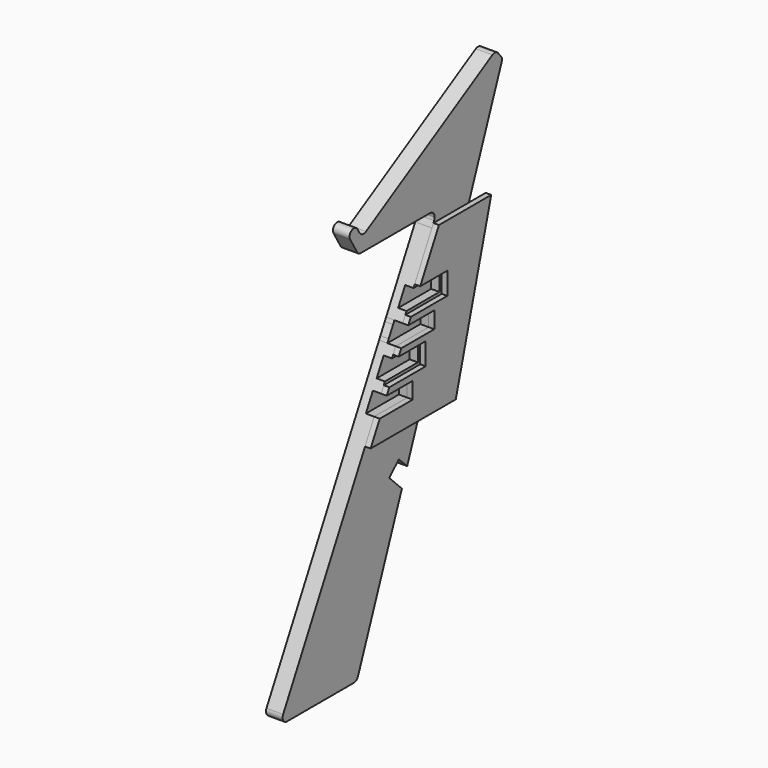
from build123d import *

# Parameters (mm, degrees)
F1_DEPTH = 19.05
F2_DEPTH = 9.525
F4_DEPTH = 9.525
F6_DEPTH = 6.35


with BuildPart() as f1:
    # F0 (on Right) → F1 (new body)
    with BuildSketch(Plane.YZ):
        with BuildLine():
            Line((107.8105096246, 137.8255506157), (60.584697992, 137.8255506157))
            Line((60.584697992, 137.8255506157), (-100.4775027292, -167.6112887093))
            ThreePointArc((-100.4775027292, -167.6112887093), (-93.299548024, -164.393306065), (-88.4512654679, -170.5878683824))
            ThreePointArc((-88.4512654679, -170.5878683824), (-90.3203579793, -175.1002568729), (-94.8327464698, -176.9693493843))
            Line((-94.8327464698, -176.9693493843), (0.4028879757, -176.9693493843))
            ThreePointArc((0.4028879757, -176.9693493843), (-4.3573678281, -165.4770754727), (7.1349061245, -170.2373311774))
            ThreePointArc((7.1349061245, -170.2373311774), (7.0221296111, -171.4644043382), (6.6875785934, -172.6503650038))
            Line((6.6875785934, -172.6503650038), (69.4354078581, -9.2251603942))
            Line((69.4354078581, -9.2251603942), (51.4045041163, 8.8536352936))
            Line((51.4045041163, 8.8536352936), (35.6487024834, 24.651285966))
            Line((35.6487024834, 24.651285966), (49.2340543405, 37.7873572342))
            Line((49.2340543405, 37.7873572342), (65.0000235232, 22.1994516607))
            Line((65.0000235232, 22.1994516607), (76.9605831289, 10.3739767037))
            Line((76.9605831289, 10.3739767037), (125.8961779685, 137.8255506157))
            Line((125.8961779685, 137.8255506157), (107.8105096246, 137.8255506157))
        make_face()
        Polygon((54.0841673908, 11.5261999599), (62.3391481966, 19.5081806493), (49.2045912393, 32.4943936268), (41.0426405432, 24.6023664522), align=None)
        with BuildLine():
            ThreePointArc((-88.4512654679, -170.5878683824), (-93.299548024, -164.393306065), (-100.4775027292, -167.6112887093))
            ThreePointArc((-100.4775027292, -167.6112887093), (-100.2970985088, -173.8839503856), (-94.8327464698, -176.9693493843))
            ThreePointArc((-94.8327464698, -176.9693493843), (-90.3203579793, -175.1002568729), (-88.4512654679, -170.5878683824))
        make_face()
        with BuildLine():
            ThreePointArc((7.1349061245, -170.2373311774), (-4.3573678281, -165.4770754727), (0.4028879757, -176.9693493843))
            ThreePointArc((0.4028879757, -176.9693493843), (4.2157268763, -175.7855136017), (6.6875785934, -172.6503650038))
            ThreePointArc((6.6875785934, -172.6503650038), (7.0221296111, -171.4644043382), (7.1349061245, -170.2373311774))
        make_face()
        Polygon((107.8105096246, 153.2306506157), (68.7080773257, 153.2306506157), (62.5025140542, 141.4624789193), (107.8105096246, 141.4624789193), align=None)
        Polygon((70.6300970032, 156.8755506157), (68.7080773257, 153.2306506157), (107.8105096246, 153.2306506157), (107.8105096246, 156.8755506157), align=None)
        with BuildLine():
            ThreePointArc((5.9119667471, 278.0406470607), (-2.416777475, 280.1584694734), (-4.5346000097, 271.8297252823))
            ThreePointArc((-4.5346000097, 271.8297252823), (2.298982141, 269.0757053504), (6.7654075798, 274.935186095))
            ThreePointArc((6.7654075798, 274.935186095), (6.5481641351, 276.5454849077), (5.9119667471, 278.0406470607))
        make_face()
        with BuildLine():
            ThreePointArc((5.7955029154, 254.4548318699), (7.6169859512, 252.6679835461), (10.0837359097, 252.0154714584))
            ThreePointArc((10.0837359097, 252.0154714584), (13.6114167441, 253.4766847038), (15.0726299895, 257.0043655382))
            ThreePointArc((15.0726299895, 257.0043655382), (8.7617064204, 261.8149062738), (5.7955029154, 254.4548318699))
        make_face()
        with BuildLine():
            Line((12.2691077497, 267.3481449502), (18.0266256783, 270.6720260533))
            ThreePointArc((18.0266256783, 270.6720260533), (12.9585284918, 269.9884074479), (8.8716515535, 273.0625545461))
            Line((8.8716515535, 273.0625545461), (12.2691077497, 267.3481449502))
        make_face()
        with BuildLine():
            ThreePointArc((198.908507512, 375.0972100255), (195.9540529554, 367.6168261352), (202.5700754122, 363.0437318081))
            ThreePointArc((202.5700754122, 363.0437318081), (203.5452578089, 368.2678630513), (208.5946207116, 369.9251084256))
            ThreePointArc((208.5946207116, 369.9251084256), (208.170777629, 371.8361839166), (207.1945464433, 373.5328940164))
            ThreePointArc((207.1945464433, 373.5328940164), (203.3415493994, 375.8512742828), (198.908507512, 375.0972100255))
        make_face()
        with BuildLine():
            ThreePointArc((202.5700754122, 363.0437318081), (207.4262559095, 359.6167612843), (212.3385946935, 362.9627355317))
            ThreePointArc((212.3385946935, 362.9627355317), (212.5977898503, 363.8815645178), (212.6851640466, 364.8322456341))
            ThreePointArc((212.6851640466, 364.8322456341), (212.3917535412, 366.5569401802), (211.5445340178, 368.0875871289))
            ThreePointArc((211.5445340178, 368.0875871289), (210.2271300628, 369.2592791589), (208.5946207116, 369.9251084256))
            ThreePointArc((208.5946207116, 369.9251084256), (208.6052822642, 369.7109387298), (208.608837418, 369.4965333003))
            ThreePointArc((208.608837418, 369.4965333003), (206.8636749781, 365.0776733325), (202.5700754122, 363.0437318081))
        make_face()
        with BuildLine():
            ThreePointArc((208.5946207116, 369.9251084256), (203.5452578089, 368.2678630513), (202.5700754122, 363.0437318081))
            ThreePointArc((202.5700754122, 363.0437318081), (206.8636749781, 365.0776733325), (208.608837418, 369.4965333003))
            ThreePointArc((208.608837418, 369.4965333003), (208.6052822642, 369.7109387298), (208.5946207116, 369.9251084256))
        make_face()
        with BuildLine():
            ThreePointArc((208.5946207116, 369.9251084256), (210.2271300628, 369.2592791589), (211.5445340178, 368.0875871289))
            Line((211.5445340178, 368.0875871289), (207.1945464433, 373.5328940164))
            ThreePointArc((207.1945464433, 373.5328940164), (208.170777629, 371.8361839166), (208.5946207116, 369.9251084256))
        make_face()
        Polygon((62.3391481966, 19.5081806493), (65.0000235232, 22.1994516607), (49.2340543405, 37.7873572342), (35.6487024834, 24.651285966), (51.4045041163, 8.8536352936), (54.0841673908, 11.5261999599), (41.0426405432, 24.6023664522), (49.2045912393, 32.4943936268), align=None)
        with BuildLine():
            Line((112.3124022113, 235.9214813278), (70.6300970032, 156.8755506157))
            Line((70.6300970032, 156.8755506157), (107.8105096246, 156.8755506157))
            Line((107.8105096246, 156.8755506157), (133.2105096246, 156.8755506157))
            Line((133.2105096246, 156.8755506157), (212.3385946935, 362.9627355317))
            ThreePointArc((212.3385946935, 362.9627355317), (207.4262559095, 359.6167612843), (202.5700754122, 363.0437318081))
            ThreePointArc((202.5700754122, 363.0437318081), (195.9540529554, 367.6168261352), (198.908507512, 375.0972100255))
            Line((198.908507512, 375.0972100255), (18.0266256783, 270.6720260533))
            Line((18.0266256783, 270.6720260533), (12.2691077497, 267.3481449502))
            Line((12.2691077497, 267.3481449502), (8.8716515535, 273.0625545461))
            Line((8.8716515535, 273.0625545461), (5.9119667471, 278.0406470607))
            ThreePointArc((5.9119667471, 278.0406470607), (6.5481641351, 276.5454849077), (6.7654075798, 274.935186095))
            ThreePointArc((6.7654075798, 274.935186095), (2.298982141, 269.0757053504), (-4.5346000097, 271.8297252823))
            Line((-4.5346000097, 271.8297252823), (5.7955029154, 254.4548318699))
            ThreePointArc((5.7955029154, 254.4548318699), (8.7617064204, 261.8149062738), (15.0726299895, 257.0043655382))
            ThreePointArc((15.0726299895, 257.0043655382), (13.6114167441, 253.4766847038), (10.0837359097, 252.0154714584))
            Line((10.0837359097, 252.0154714584), (109.522503886, 252.0154714584))
            ThreePointArc((109.522503886, 252.0154714584), (114.3322296104, 250.0232178321), (116.3244832368, 245.2134921076))
            ThreePointArc((116.3244832368, 245.2134921076), (116.1252477883, 243.5792656699), (115.5392129758, 242.0407748468))
            Line((115.5392129758, 242.0407748468), (112.3124022113, 235.9214813278))
        make_face()
        Polygon((107.8105096246, 141.4624789193), (62.5025140542, 141.4624789193), (60.584697992, 137.8255506157), (107.8105096246, 137.8255506157), align=None)
        Polygon((131.8110341678, 153.2306506157), (107.8105096246, 153.2306506157), (107.8105096246, 141.4624789193), (127.2925926573, 141.4624789193), align=None)
        Polygon((107.8105096246, 156.8755506157), (107.8105096246, 153.2306506157), (131.8110341678, 153.2306506157), (133.2105096246, 156.8755506157), align=None)
        Polygon((127.2925926573, 141.4624789193), (107.8105096246, 141.4624789193), (107.8105096246, 137.8255506157), (125.8961779685, 137.8255506157), align=None)
    extrude(amount=-F1_DEPTH)

    # F0 (on Right) → F2 (cut)
    with BuildSketch(Plane.YZ):
        Polygon((70.6300970032, 156.8755506157), (68.7080773257, 153.2306506157), (107.8105096246, 153.2306506157), (107.8105096246, 156.8755506157), align=None)
        Polygon((107.8105096246, 153.2306506157), (68.7080773257, 153.2306506157), (62.5025140542, 141.4624789193), (107.8105096246, 141.4624789193), align=None)
        Polygon((107.8105096246, 141.4624789193), (62.5025140542, 141.4624789193), (60.584697992, 137.8255506157), (107.8105096246, 137.8255506157), align=None)
    extrude(amount=-F2_DEPTH, mode=Mode.SUBTRACT)

    # F3 (on face) → F4 (cut)
    with BuildSketch(Plane.YZ):
        Polygon((86.0330421537, 186.0855506157), (75.9876431425, 167.0355506157), (123.2138631425, 167.0355506157), (123.2138631425, 186.0855506157), align=None)
        Polygon((92.4079728415, 127.6655506157), (55.2271518527, 127.6655506157), (45.1817528415, 108.6155506157), (92.4079728415, 108.6155506157), align=None)
        Polygon((77.005027691, 98.4555506157), (39.8242067022, 98.4555506157), (29.778807691, 79.4055506157), (77.005027691, 79.4055506157), align=None)
    extrude(amount=-F4_DEPTH, mode=Mode.SUBTRACT)


with BuildPart() as f6:
    # F5 (on face) → F6 (new body)
    with BuildSketch(Plane.YZ):
        Polygon((87.7072753222, 189.2605506157), (126.3888631425, 189.2605506157), (126.3888631425, 163.8605506157), (75.9876431425, 163.8605506157), (74.3134099739, 163.8605506157), (70.6300970032, 156.8755506157), (107.8105096246, 156.8755506157), (107.8105096246, 137.8255506157), (60.584697992, 137.8255506157), (56.9013850212, 130.8405506157), (95.5829728415, 130.8405506157), (95.5829728415, 105.4405506157), (45.1817528415, 105.4405506157), (43.5075196729, 105.4405506157), (39.8242067022, 98.4555506157), (77.005027691, 98.4555506157), (77.005027691, 79.4055506157), (29.778807691, 79.4055506157), (16.7197889764, 54.6405506157), (45.1817528415, 54.6405506157), (93.9569297365, 54.6405506157), (165.1497578566, 240.0605506157), (126.3888631425, 240.0605506157), (114.4950060187, 240.0605506157), align=None)
        Polygon((189.3072753222, 240.0605506157), (165.1497578566, 240.0605506157), (93.9569297365, 54.6405506157), (95.5829728415, 54.6405506157), (138.5887376755, 54.6405506157), align=None)
    extrude(amount=F6_DEPTH)


solid = Compound([f1.part, f6.part])
